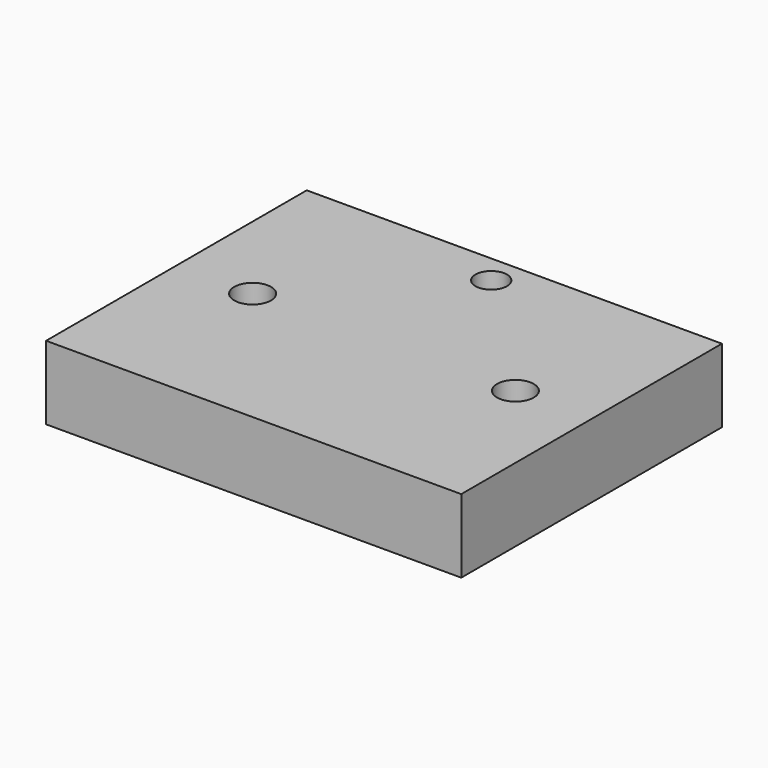
from build123d import *

# Parameters (mm, degrees)
F0_W     = 79
F0_H     = 62
F2_DEPTH = 14
F1_R     = 3.5
F1_R_2   = 3
F3_DEPTH = 14.001


with BuildPart() as f2:
    # F0 (on Top) → F2 (new body)
    with BuildSketch(Plane.XY):
        with Locations((39.5, 31)):
            Rectangle(F0_W, F0_H)
    extrude(amount=-F2_DEPTH)

    # F1 (on face) → F3 (cut, through all)
    with BuildSketch(Plane.XY):
        with Locations((14.5, 31)):
            Circle(F1_R)
        with Locations((39.5, 56.5)):
            Circle(F1_R_2)
        with Locations((64.5, 31)):
            Circle(F1_R)
    extrude(amount=-F3_DEPTH, mode=Mode.SUBTRACT)


solid = f2.part
